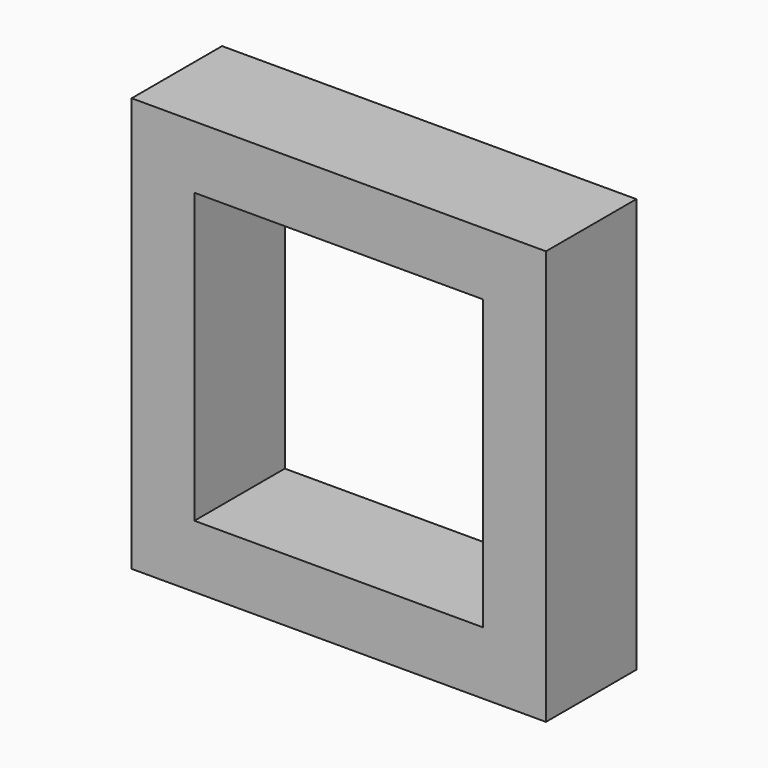
from build123d import *

# Parameters (mm, degrees)
BOX017_W               = 115
BOX017_H               = 115
BOX017_DEPTH           = 60
BOX016_W               = 165
BOX016_H               = 165
BOX016_DEPTH           = 45
CUT004_PITCH_ANGLE     = -90
CUT004_PLACEMENT_ANGLE = -90


with BuildPart() as cube013:
    # Box017 → Box017 (new body)
    with BuildSketch(Plane(origin=(25, 25, -7), x_dir=(1, 0, 0), z_dir=(0, 0, 1))):
        with Locations((57.5, 57.5)):
            Rectangle(BOX017_W, BOX017_H)
    extrude(amount=BOX017_DEPTH)


with BuildPart() as bellows:
    # Box016 → Box016 (new body)
    with BuildSketch(Plane.XY):
        with Locations((82.5, 82.5)):
            Rectangle(BOX016_W, BOX016_H)
    extrude(amount=BOX016_DEPTH)

    # Cut004: cut Cube013
    add(cube013.part, mode=Mode.SUBTRACT)


with BuildPart() as bellows_1:
    # Cut004 pitch: moved
    add(bellows.part.rotate(Axis((0, 0, 0), (0, 1, 0)), CUT004_PITCH_ANGLE))


with BuildPart() as bellows_2:
    # Cut004 placement: moved
    add(bellows_1.part.moved(Location((3.5, 14.5, 2))).rotate(Axis((3.5, 14.5, 2), (0, 0, 1)), CUT004_PLACEMENT_ANGLE))


solid = bellows_2.part
